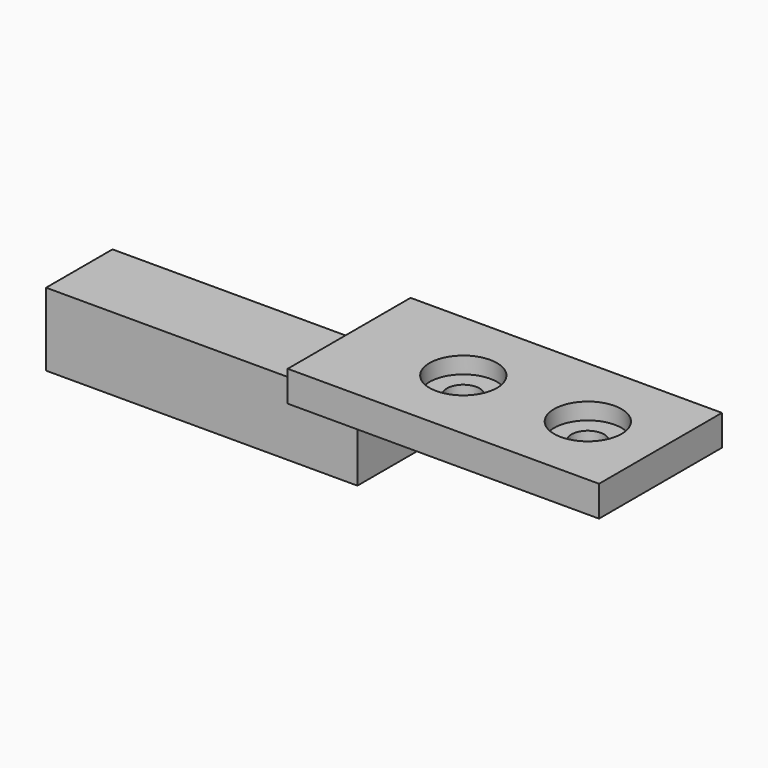
from build123d import *

# Parameters (mm, degrees)
F0_R     = 5.15874
F0_R_2   = 2.4892
F0_W     = 6.35
F0_H     = 5.3975
F0_H_2   = 12.7
F1_DEPTH = 4.699
F0_W_2   = 41.275
F2_DEPTH = 15.875
F3_DEPTH = 2.54
F4_DEPTH = 4.699


with BuildPart() as f1:
    # F0 (on Top) → F1 (new body)
    with BuildSketch(Plane.XY):
        Polygon((44.45, 11.7475), (3.175, 11.7475), (3.175, 6.35), (3.175, -6.35), (3.175, -11.7475), (44.45, -11.7475), align=None)
        with Locations((14.2875, 0)):
            Circle(F0_R, mode=Mode.SUBTRACT)
        with Locations((33.3375, 0)):
            Circle(F0_R, mode=Mode.SUBTRACT)
        with Locations((14.2875, 0)):
            Circle(F0_R)
        with Locations((14.2875, 0)):
            Circle(F0_R_2, mode=Mode.SUBTRACT)
        with Locations((33.3375, 0)):
            Circle(F0_R)
        with Locations((33.3375, 0)):
            Circle(F0_R_2, mode=Mode.SUBTRACT)
        with Locations((0, 9.04875)):
            Rectangle(F0_W, F0_H)
        Rectangle(F0_W, F0_H_2)
        with Locations((0, -9.04875)):
            Rectangle(F0_W, F0_H)
    extrude(amount=-F1_DEPTH)

    # F0 (on Top) → F2 (join)
    with BuildSketch(Plane.XY):
        with Locations((-23.8125, 0)):
            Rectangle(F0_W_2, F0_H_2)
        Rectangle(F0_W, F0_H_2)
    extrude(amount=-F2_DEPTH)

    # F0 (on Top) → F3 (cut)
    with BuildSketch(Plane.XY):
        with Locations((14.2875, 0)):
            Circle(F0_R)
        with Locations((14.2875, 0)):
            Circle(F0_R_2, mode=Mode.SUBTRACT)
        with Locations((33.3375, 0)):
            Circle(F0_R)
        with Locations((33.3375, 0)):
            Circle(F0_R_2, mode=Mode.SUBTRACT)
    extrude(amount=-F3_DEPTH, mode=Mode.SUBTRACT)

    # F0 (on Top) → F4 (cut)
    with BuildSketch(Plane.XY):
        with Locations((-23.8125, 0)):
            Rectangle(F0_W_2, F0_H_2)
    extrude(amount=-F4_DEPTH, mode=Mode.SUBTRACT)


solid = f1.part
